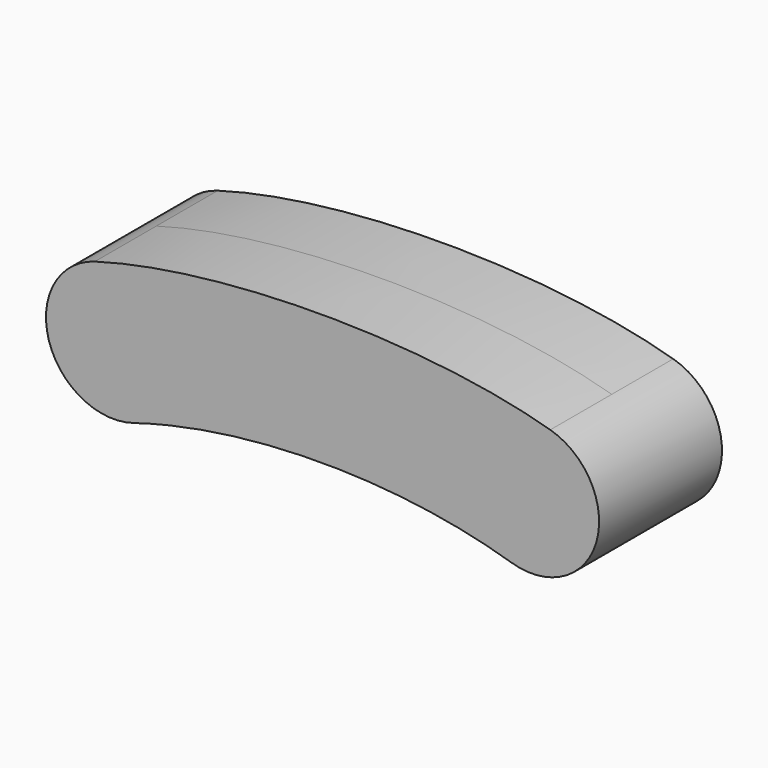
from build123d import *

# Parameters (mm, degrees)
F1_DEPTH = 12.5


with BuildPart() as f1:
    # F0 (on Front) → F1 (new body, symmetric)
    with BuildSketch(Plane.XZ):
        with BuildLine():
            ThreePointArc((30.7731545251, -10.5160576397), (44.541440314, -3.1429343145), (37.0588235294, 10.5661534447))
            add(Edge.make_bspline(
                [(37.0588235294, 10.5661534447), (21.7429013772, 15), (0, 15)],
                knots=[3.9231845519, 3.9231845519, 3.9231845519, 4.7123889804, 4.7123889804, 4.7123889804], degree=2, weights=[1, 0.9231495625, 1]))
            add(Edge.make_bspline(
                [(0, 15), (-21.7429013772, 15), (-37.0588235294, 10.5661534447)],
                knots=[4.7123889804, 4.7123889804, 4.7123889804, 5.5015934089, 5.5015934089, 5.5015934089], degree=2, weights=[1, 0.9231495625, 1]))
            ThreePointArc((-37.0588235294, 10.5661534447), (-44.541440314, -3.1429343145), (-30.7731545251, -10.5160576397))
            add(Edge.make_bspline(
                [(30.7731545251, -10.5160576397), (0, -1.0733351071), (-30.7731545251, -10.5160576397)],
                knots=[4.1185922049, 4.1185922049, 4.1185922049, 5.3061857559, 5.3061857559, 5.3061857559], degree=2, weights=[1, 0.8288223171, 1]))
        make_face()
    extrude(amount=F1_DEPTH, both=True)


solid = f1.part
